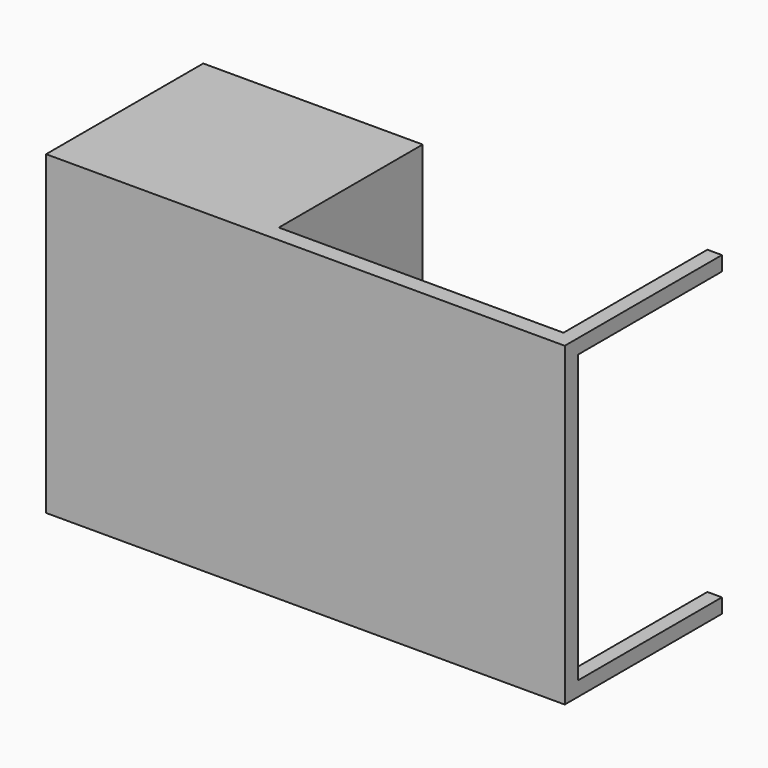
from build123d import *

# Parameters (mm, degrees)
F0_W           = 1320.8
F0_H           = 1625.6
F0_W_2         = 1219.2
F0_H_2         = 1524
F1_DEPTH       = 50.8
F2_W           = 50.8
F2_H           = 50.8
F3_DEPTH       = 863.6
F4_W           = 1320.8
F4_H           = 1625.6
F4_W_2         = 1219.2
F4_H_2         = 1524
F5_DEPTH       = 50.8
F6_W           = 609.6
F6_H           = 50.8
F7_DEPTH       = 1524
F9_DEPTH       = 965.201
F10_W          = 50.8
F10_H          = 50.8
F11_DEPTH      = 863.6
F12_W          = 558.8
F12_H          = 254
F13_DEPTH      = 914.4
F14_W          = 914.4
F14_H          = 254
F15_DEPTH      = 1625.601
F16_W          = 1625.6
F16_H          = 965.2
F17_DEPTH      = 5.08
F18_W          = 1625.6
F18_H          = 965.2
F19_DEPTH      = 5.08
F20_W          = 1627.432287
F20_H          = 51.704206
F21_DEPTH      = 53.34
F22_W          = 50.8
F22_H          = 965.2
F23_DEPTH      = 914.4
F23_DEPTH_BACK = 665.48
F24_W          = 670.56
F24_H          = 965.2
F25_DEPTH      = 5.08
F26_W          = 670.56
F26_H          = 965.2
F27_DEPTH      = 5.08
F28_W          = 44.45
F28_H          = 44.45
F29_DEPTH      = 549.543908
F30_W          = 670.56
F30_H          = 1035.416092
F31_DEPTH      = 965.201
F32_W          = 670.56
F32_H          = 38.1
F33_DEPTH      = 914.4


with BuildPart() as f1:
    # F0 (on Top) → F1 (new body)
    with BuildSketch(Plane.XY):
        Rectangle(F0_W, F0_H)
        Rectangle(F0_W_2, F0_H_2, mode=Mode.SUBTRACT)
    extrude(amount=F1_DEPTH)

    # F2 (on face) → F3 (join)
    with BuildSketch(Plane.XY.offset(50.8)):
        with Locations((-635, 787.4)):
            Rectangle(F2_W, F2_H)
        with Locations((635, 787.4)):
            Rectangle(F2_W, F2_H)
        with Locations((635, -787.4)):
            Rectangle(F2_W, F2_H)
        with Locations((-635, -787.4)):
            Rectangle(F2_W, F2_H)
    extrude(amount=F3_DEPTH)

    # F4 (on face) → F5 (join)
    with BuildSketch(Plane.XY.offset(914.4)):
        Rectangle(F4_W, F4_H)
        Rectangle(F4_W_2, F4_H_2, mode=Mode.SUBTRACT)
    extrude(amount=F5_DEPTH)

    # F6 (on face) → F7 (join, through all)
    with BuildSketch(Plane.XZ.offset(-762)):
        with Locations((-304.8, 939.8)):
            Rectangle(F6_W, F6_H)
    extrude(amount=F7_DEPTH)

    # F8 (on face) → F9 (cut, through all)
    with BuildSketch(Plane.XY.offset(965.2)):
        Polygon((0, 812.8), (0, 762), (0, -812.8), (660.4, -812.8), (660.4, 812.8), align=None)
    extrude(amount=-F9_DEPTH, mode=Mode.SUBTRACT)

    # F10 (on face) → F11 (join, through all)
    with BuildSketch(Plane.XY.offset(50.8)):
        with Locations((-25.4, 787.4)):
            Rectangle(F10_W, F10_H)
        with Locations((-25.4, -787.4)):
            Rectangle(F10_W, F10_H)
    extrude(amount=F11_DEPTH)

    # F12 (on face) → F13 (join)
    with BuildSketch(Plane.YZ):
        with Locations((533.4, 127)):
            Rectangle(F12_W, F12_H)
    extrude(amount=F13_DEPTH)

    # F14 (on face) → F15 (cut, through all)
    with BuildSketch(Plane(origin=(0, 812.8, 0), x_dir=(-1, 0, 0), z_dir=(0, 1, 0))):
        with Locations((-457.2, 127)):
            Rectangle(F14_W, F14_H)
    extrude(amount=-F15_DEPTH, mode=Mode.SUBTRACT)

    # F16 (on face) → F17 (join)
    with BuildSketch(Plane.YZ):
        with Locations((0, 482.6)):
            Rectangle(F16_W, F16_H)
    extrude(amount=F17_DEPTH)

    # F18 (on face) → F19 (join)
    with BuildSketch(Plane(origin=(-660.4, 0, 0), x_dir=(0, -1, 0), z_dir=(-1, 0, 0))):
        with Locations((0, 482.6)):
            Rectangle(F18_W, F18_H)
    extrude(amount=F19_DEPTH)

    # F20 (on face) → F21 (join)
    with BuildSketch(Plane(origin=(0, 0, 0), x_dir=(0, -1, 0), z_dir=(-1, 0, 0))):
        with Locations((-1.976996, 25.852103)):
            Rectangle(F20_W, F20_H)
    extrude(amount=F21_DEPTH)

    # F22 (on face) → F23 (join, two sides)
    with BuildSketch(Plane.YZ.offset(5.08)) as f23_sk:
        with Locations((242.936092, 482.6)):
            Rectangle(F22_W, F22_H)
    extrude(amount=F23_DEPTH)
    extrude(f23_sk.sketch, amount=-F23_DEPTH_BACK)

    # F24 (on face) → F25 (join)
    with BuildSketch(Plane(origin=(0, 812.8, 0), x_dir=(-1, 0, 0), z_dir=(0, 1, 0))):
        with Locations((330.2, 482.6)):
            Rectangle(F24_W, F24_H)
    extrude(amount=F25_DEPTH)

    # F26 (on face) → F27 (join)
    with BuildSketch(Plane.XZ.offset(812.8)):
        with Locations((-330.2, 482.6)):
            Rectangle(F26_W, F26_H)
    extrude(amount=F27_DEPTH)

    # F28 (on face) → F29 (join, through all)
    with BuildSketch(Plane(origin=(0, 268.336092, 0), x_dir=(-1, 0, 0), z_dir=(0, 1, 0))):
        with Locations((-897.255, 22.225)):
            Rectangle(F28_W, F28_H)
        with Locations((-897.255, 942.975)):
            Rectangle(F28_W, F28_H)
    extrude(amount=F29_DEPTH)

    # F30 (on face) → F31 (cut, through all)
    with BuildSketch(Plane(origin=(0, 0, 0), x_dir=(1, 0, 0), z_dir=(0, 0, -1))):
        with Locations((-330.2, 300.171954)):
            Rectangle(F30_W, F30_H)
    extrude(amount=-F31_DEPTH, mode=Mode.SUBTRACT)

    # F32 (on face) → F33 (join, through all)
    with BuildSketch(Plane(origin=(0, 0, 0), x_dir=(1, 0, 0), z_dir=(0, 0, -1))):
        with Locations((-330.2, -556.9204)):
            Rectangle(F32_W, F32_H)
    extrude(amount=-F33_DEPTH)


solid = f1.part
